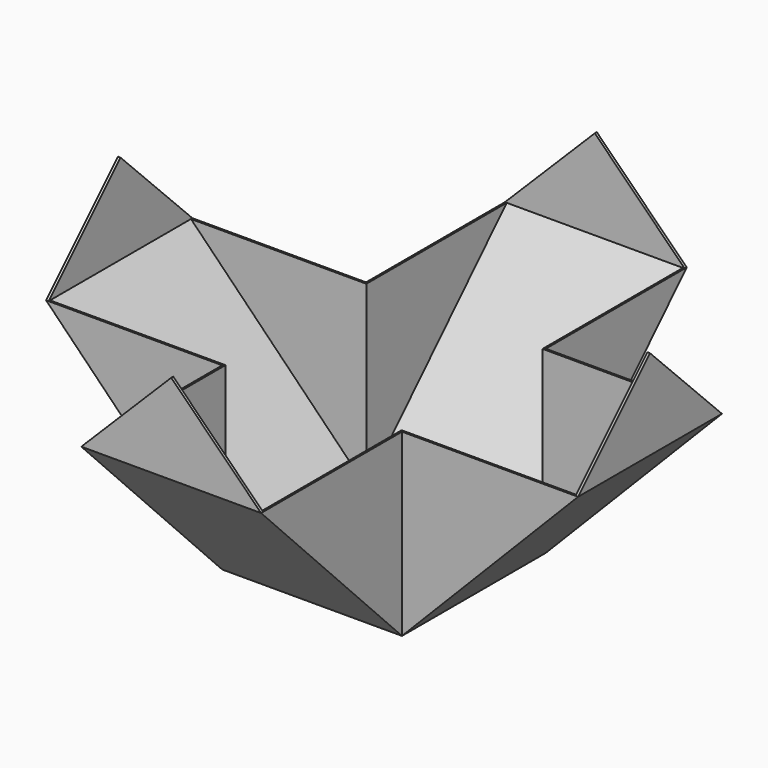
from build123d import *

# Parameters (mm, degrees)
F0_W      = 100
F0_H      = 100
F1_DEPTH  = 100
F3_DEPTH  = 100
F5_COUNT  = 2
F5_ANGLE  = 90
F6_T      = -1
F7_W      = 1.4
F7_H      = 100
F8_DEPTH  = 100
F10_DEPTH = 2
F11_COUNT = 4


with BuildPart() as f1:
    # F0 (on Top) → F1 (new body)
    with BuildSketch(Plane.XY):
        Rectangle(F0_W, F0_H)
    extrude(amount=F1_DEPTH)

    # F2 (on face) → F3 (join)
    with BuildSketch(Plane.XZ.offset(50)):
        Polygon((-50, 0), (-50, 100), (-147.9795897113, 100), align=None)
        Polygon((147.9795897113, 100), (50, 100), (50, 0), align=None)
    extrude(amount=-F3_DEPTH)

    # F5: F1 ×2 about axis
    f5_axis = Axis((0, 0, 92.5767719746), (0, 0, 1))


with BuildPart() as f1_1:
    add(f1.part)
    for i in range(1, F5_COUNT):
        add(f1.part.rotate(f5_axis, i * F5_ANGLE / (F5_COUNT - 1)))

    # F6
    f6_openings = [f1_1.faces().sort_by_distance(p)[0] for p in [
        (0, 0, 100),
    ]]
    offset(amount=F6_T, openings=f6_openings, kind=Kind.INTERSECTION)

    # F7 (on face) → F8 (join)
    with BuildSketch(Plane.XY.offset(100)):
        with Locations((-147.2795897113, 0)):
            Rectangle(F7_W, F7_H)
    extrude(amount=F8_DEPTH)

    # F9 (on face) → F10 (cut)
    with BuildSketch(Plane(origin=(-147.9795897113, 0, 0), x_dir=(0, -1, 0), z_dir=(-1, 0, 0))):
        Polygon((-50, 200), (-50, 100), (0, 150), (50, 100), (50, 200), align=None)
    extrude(amount=-F10_DEPTH, mode=Mode.SUBTRACT)

    # F11: F1 ×4 about axis
    f11_axis = Axis((0, 0, 92.5767719746), (0, 0, 1))


with BuildPart() as f1_2:
    add(f1_1.part)
    for i in range(1, F11_COUNT):
        add(f1_1.part.rotate(f11_axis, i * 360 / F11_COUNT))


solid = f1_2.part
